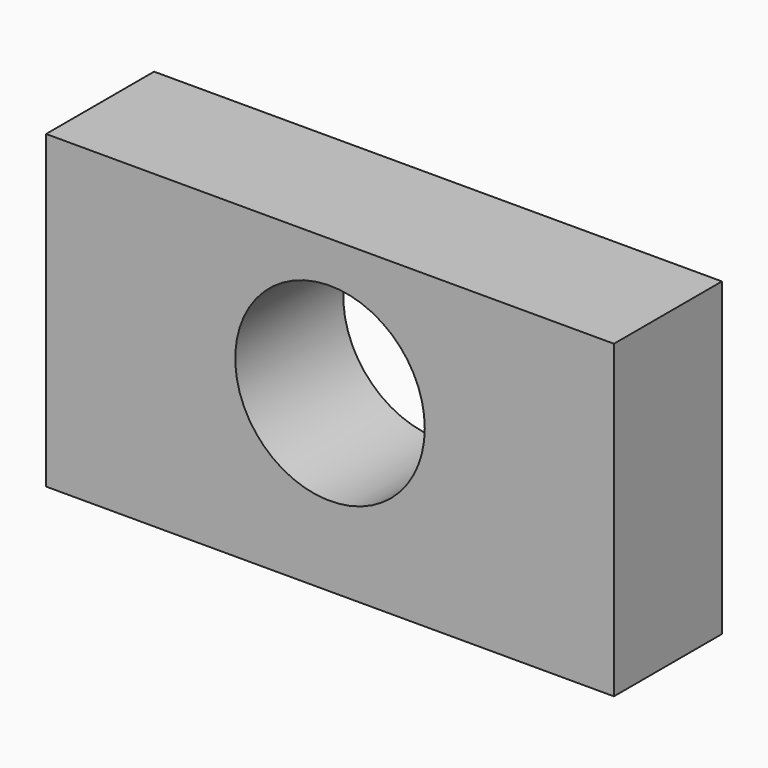
from build123d import *

# Parameters (mm, degrees)
F0_W     = 106.856882
F0_H     = 58.417847
F0_R     = 17.832482
F1_DEPTH = 12.7


with BuildPart() as f1:
    # F0 (on Front) → F1 (new body, symmetric)
    with BuildSketch(Plane.XZ):
        with Locations((0, -3.616767)):
            Rectangle(F0_W, F0_H)
        Circle(F0_R, mode=Mode.SUBTRACT)
    extrude(amount=F1_DEPTH, both=True)


solid = f1.part
